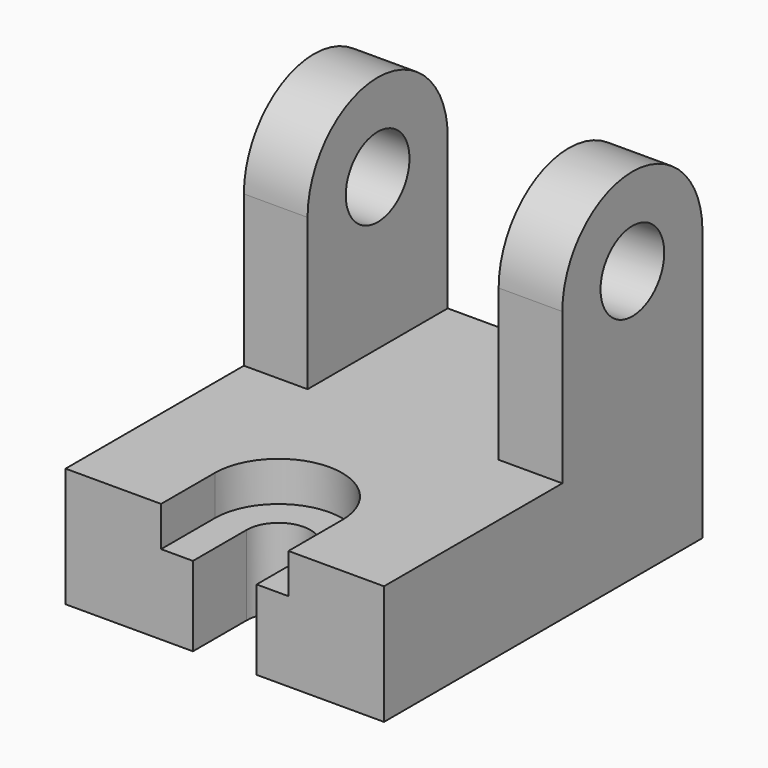
from build123d import *

# Parameters (mm, degrees)
F1_DEPTH = 40
F2_DEPTH = 24
F4_DEPTH = 10
F5_DEPTH = 30.001


with BuildPart() as f1:
    # F0 (on Right) → F1 (new body, symmetric)
    with BuildSketch(Plane.YZ):
        Polygon((-100, 0), (0, 0), (0, 30), (-44, 30), (-100, 30), align=None)
        with BuildLine():
            Line((-44, 30), (0, 30))
            Line((0, 30), (0, 68))
            ThreePointArc((0, 68), (-22, 46), (-44, 68))
            Line((-44, 68), (-44, 30))
        make_face()
        with BuildLine():
            ThreePointArc((-44, 68), (-22, 46), (0, 68))
            Line((0, 68), (-12, 68))
            ThreePointArc((-12, 68), (-22, 58), (-32, 68))
            Line((-32, 68), (-44, 68))
        make_face()
        with BuildLine():
            Line((-12, 68), (0, 68))
            ThreePointArc((0, 68), (-22, 90), (-44, 68))
            Line((-44, 68), (-32, 68))
            ThreePointArc((-32, 68), (-22, 78), (-12, 68))
        make_face()
    extrude(amount=F1_DEPTH, both=True)

    # F0 (on Right) → F2 (cut, symmetric)
    with BuildSketch(Plane.YZ):
        with BuildLine():
            Line((-44, 30), (0, 30))
            Line((0, 30), (0, 68))
            ThreePointArc((0, 68), (-22, 46), (-44, 68))
            Line((-44, 68), (-44, 30))
        make_face()
        with BuildLine():
            ThreePointArc((-44, 68), (-22, 46), (0, 68))
            Line((0, 68), (-12, 68))
            ThreePointArc((-12, 68), (-22, 58), (-32, 68))
            Line((-32, 68), (-44, 68))
        make_face()
        with BuildLine():
            Line((-12, 68), (0, 68))
            ThreePointArc((0, 68), (-22, 90), (-44, 68))
            Line((-44, 68), (-32, 68))
            ThreePointArc((-32, 68), (-22, 78), (-12, 68))
        make_face()
        with BuildLine():
            Line((-32, 68), (-12, 68))
            ThreePointArc((-12, 68), (-22, 78), (-32, 68))
        make_face()
    extrude(amount=F2_DEPTH, both=True, mode=Mode.SUBTRACT)

    # F3 (on face) → F4 (cut)
    with BuildSketch(Plane.XY.offset(30)):
        with BuildLine():
            Line((16, -100), (16, -83.1376686692))
            ThreePointArc((16, -83.1376686692), (0, -67.1376686692), (-16, -83.1376686692))
            Line((-16, -83.1376686692), (-16, -100))
            Line((-16, -100), (-8, -100))
            Line((-8, -100), (-8, -83.1376686692))
            ThreePointArc((-8, -83.1376686692), (0, -75.1376686692), (8, -83.1376686692))
            Line((8, -83.1376686692), (8, -100))
            Line((8, -100), (16, -100))
        make_face()
    extrude(amount=-F4_DEPTH, mode=Mode.SUBTRACT)

    # F5 (cut, through all): a face of the model
    f5_faces = [f1.faces().sort_by_distance(p)[0] for p in [
        (0, -88.3583676716, 30),
    ]]
    extrude(f5_faces, amount=-F5_DEPTH, mode=Mode.SUBTRACT)


solid = f1.part
